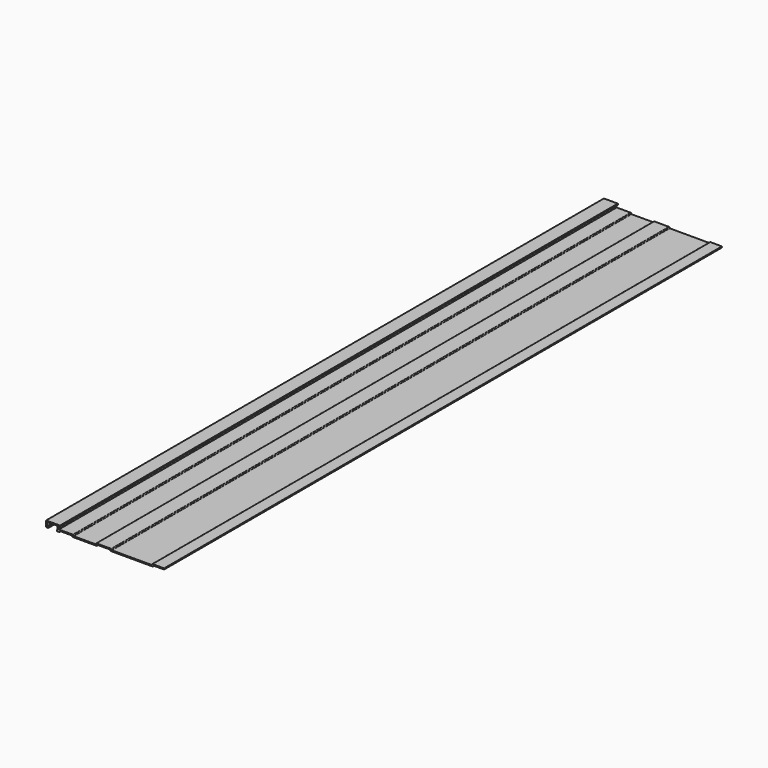
from build123d import *

# Parameters (mm, degrees)
F1_DEPTH = 1100


with BuildPart() as f1:
    # F0 (on Front) → F1 (new body)
    with BuildSketch(Plane.XZ):
        with BuildLine():
            Line((21.919338, 0), (0, 0))
            Line((0, 0), (0, -9.4))
            Line((0, -9.4), (3.5, -9.4))
            Line((3.5, -9.4), (3.5, -7.7))
            Line((3.5, -7.7), (1.7, -7.7))
            Line((1.7, -7.7), (1.7, -1.7))
            Line((1.7, -1.7), (18, -1.7))
            Line((18, -1.7), (18, -7.7))
            Line((18, -7.7), (17.050766, -7.7))
            Line((17.050766, -7.7), (17.050766, -9.4))
            Line((17.050766, -9.4), (20.550766, -9.4))
            ThreePointArc((20.550766, -9.4), (21.151807, -9.151041), (21.400766, -8.55))
            ThreePointArc((21.400766, -8.55), (21.649725, -7.948959), (22.250766, -7.7))
            Line((22.250766, -7.7), (40.369338, -7.7))
            ThreePointArc((40.369338, -7.7), (40.970379, -7.948959), (41.219338, -8.55))
            ThreePointArc((41.219338, -8.55), (41.468297, -9.151041), (42.069338, -9.4))
            Line((42.069338, -9.4), (79.569338, -9.4))
            ThreePointArc((79.569338, -9.4), (80.170379, -9.151041), (80.419338, -8.55))
            ThreePointArc((80.419338, -8.55), (80.668297, -7.948959), (81.269338, -7.7))
            Line((81.269338, -7.7), (100.669338, -7.7))
            ThreePointArc((100.669338, -7.7), (101.270379, -7.948959), (101.519338, -8.55))
            ThreePointArc((101.519338, -8.55), (101.768297, -9.151041), (102.369338, -9.4))
            Line((102.369338, -9.4), (168.069338, -9.4))
            ThreePointArc((168.069338, -9.4), (168.670379, -9.151041), (168.919338, -8.55))
            ThreePointArc((168.919338, -8.55), (169.168297, -7.948959), (169.769338, -7.7))
            Line((169.769338, -7.7), (186.219338, -7.7))
            Line((186.219338, -7.7), (186.219338, -6))
            Line((186.219338, -6), (168.069338, -6))
            ThreePointArc((168.069338, -6), (167.468297, -6.248959), (167.219338, -6.85))
            ThreePointArc((167.219338, -6.85), (166.970379, -7.451041), (166.369338, -7.7))
            Line((166.369338, -7.7), (104.069338, -7.7))
            ThreePointArc((104.069338, -7.7), (103.468297, -7.451041), (103.219338, -6.85))
            ThreePointArc((103.219338, -6.85), (102.970379, -6.248959), (102.369338, -6))
            Line((102.369338, -6), (79.569338, -6))
            ThreePointArc((79.569338, -6), (78.968297, -6.248959), (78.719338, -6.85))
            ThreePointArc((78.719338, -6.85), (78.470379, -7.451041), (77.869338, -7.7))
            Line((77.869338, -7.7), (43.769338, -7.7))
            ThreePointArc((43.769338, -7.7), (43.168297, -7.451041), (42.919338, -6.85))
            ThreePointArc((42.919338, -6.85), (42.670379, -6.248959), (42.069338, -6))
            Line((42.069338, -6), (20.169338, -6))
            Line((20.169338, -6), (20.169338, -1.7))
            Line((20.169338, -1.7), (21.919338, -1.7))
            Line((21.919338, -1.7), (21.919338, 0))
        make_face()
    extrude(amount=F1_DEPTH)


solid = f1.part
